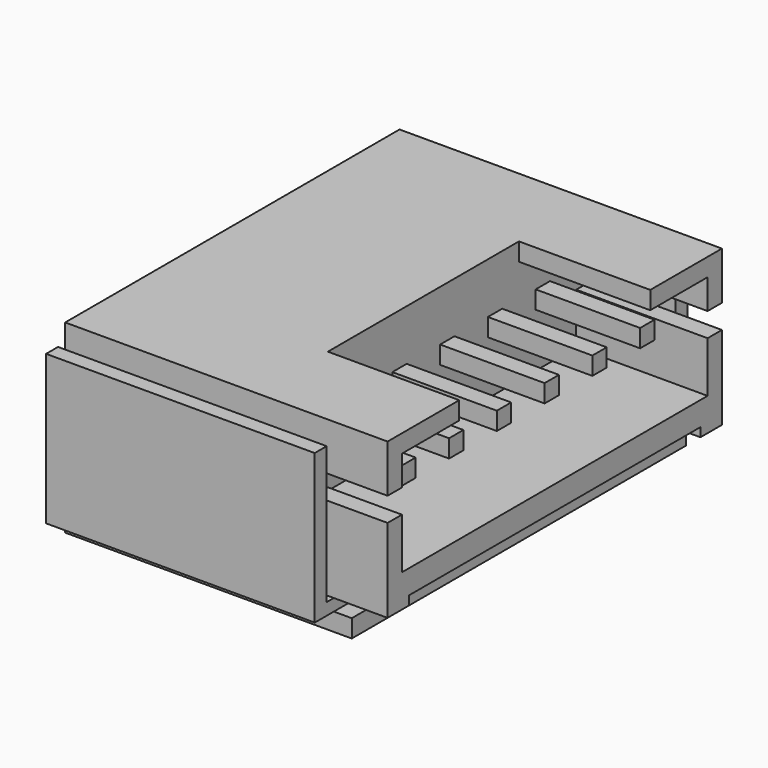
from build123d import *

# Parameters (mm, degrees)
SKETCH006_W  = 14
SKETCH006_H  = 0.6
PAD001_DEPTH = 9.6
PAD002_DEPTH = 9
PAD003_DEPTH = 6.4
PAD004_DEPTH = 4.4
SKETCH010_W  = 0.6
SKETCH010_H  = 0.6
PAD005_DEPTH = 3.5


with BuildPart() as part:
    # Sketch006 → Pad001 (new body)
    with BuildSketch(Plane.YZ.offset(16)):
        with Locations((0, 3.5)):
            Rectangle(SKETCH006_W, SKETCH006_H)
    extrude(amount=PAD001_DEPTH)

    # Sketch007 → Pad002 (join)
    with BuildSketch(Plane.YZ.offset(16)):
        Polygon((7.8, 8.8), (7.8, 3.8), (0.5, 3.8), (0, 3.4), (-0.5, 3.8), (-7.8, 3.8), (-7.8, 8.8), (-7.3, 8.8), (-7.3, 4.2), (7.3, 4.2), (7.3, 8.8), align=None)
    extrude(amount=PAD002_DEPTH)

    # Sketch008 → Pad003 (join)
    with BuildSketch(Plane.YZ.offset(16)):
        Polygon((-7, 9.4), (7, 9.4), (7, 4.2), (6.1, 4.2), (6.1, 4.5), (-6.1, 4.5), (-6.1, 4.2), (-7, 4.2), align=None)
    extrude(amount=PAD003_DEPTH)

    # Sketch009 (on Face21 of Pad003) → Pad004 (join)
    with BuildSketch(Plane.YZ.offset(22.4)):
        Polygon((-7, 9.4), (-4, 9.4), (-4, 8.8), (-6.4, 8.8), (-6.4, 7.8), (-7, 7.8), align=None)
        Polygon((4, 9.4), (7, 9.4), (7, 7.8), (6.4, 7.8), (6.4, 8.8), (4, 8.8), align=None)
        Polygon((7, 7), (7, 4.2), (6.1, 4.2), (6.1, 4.5), (-6.1, 4.5), (-6.1, 4.2), (-7, 4.2), (-7, 7), (-6.4, 7), (-6.4, 5.3), (6.4, 5.3), (6.4, 7), align=None)
    extrude(amount=PAD004_DEPTH)

    # Sketch010 (on Face35 of Pad004) → Pad005 (join)
    with BuildSketch(Plane.YZ.offset(22.4)):
        with Locations((-5, 7.4)):
            Rectangle(SKETCH010_W, SKETCH010_H)
        with Locations((-3, 7.4)):
            Rectangle(SKETCH010_W, SKETCH010_H)
        with Locations((-1, 7.4)):
            Rectangle(SKETCH010_W, SKETCH010_H)
        with Locations((1, 7.4)):
            Rectangle(SKETCH010_W, SKETCH010_H)
        with Locations((3, 7.4)):
            Rectangle(SKETCH010_W, SKETCH010_H)
        with Locations((5, 7.4)):
            Rectangle(SKETCH010_W, SKETCH010_H)
    extrude(amount=PAD005_DEPTH)


solid = part.part
